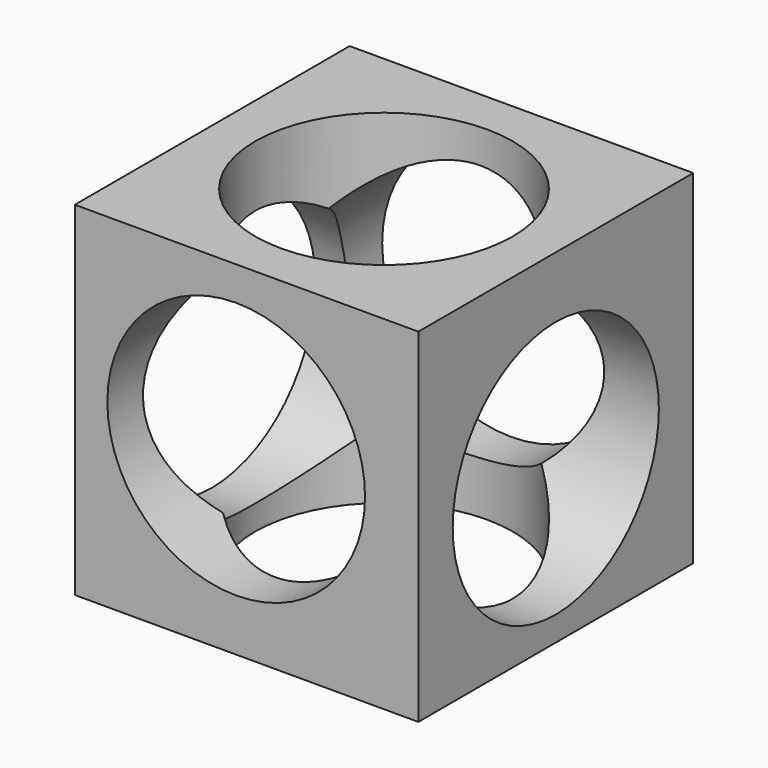
from build123d import *

# Parameters (mm, degrees)
F0_W     = 101.6
F0_H     = 101.6
F1_DEPTH = 101.6
F2_R     = 38.1
F3_DEPTH = 101.6
F5_R     = 38.1
F6_DEPTH = 101.6
F7_R     = 38.1
F8_DEPTH = 101.6
F9_DEPTH = 101.6


with BuildPart() as f1:
    # F0 (on Top) → F1 (new body)
    with BuildSketch(Plane.XY):
        Rectangle(F0_W, F0_H)
    extrude(amount=F1_DEPTH)

    # F2 (on face) → F3 (cut)
    with BuildSketch(Plane.XY.offset(101.6)):
        Circle(F2_R)
    extrude(amount=-F3_DEPTH, mode=Mode.SUBTRACT)

    # F5 (on face) → F6 (cut)
    with BuildSketch(Plane(origin=(-50.8, 0, 0), x_dir=(0, -1, 0), z_dir=(-1, 0, 0))):
        with Locations((0, 45.403347)):
            Circle(F5_R)
    extrude(amount=-F6_DEPTH, mode=Mode.SUBTRACT)

    # F7 (on face) → F8 (cut)
    with BuildSketch(Plane.XZ.offset(50.8)):
        with Locations((-3.069929, 53.486187)):
            Circle(F7_R)
    extrude(amount=F8_DEPTH, mode=Mode.SUBTRACT)

    # F7 (on face) → F9 (cut)
    with BuildSketch(Plane.XZ.offset(50.8)):
        with Locations((-3.069929, 53.486187)):
            Circle(F7_R)
    extrude(amount=-F9_DEPTH, mode=Mode.SUBTRACT)


solid = f1.part
